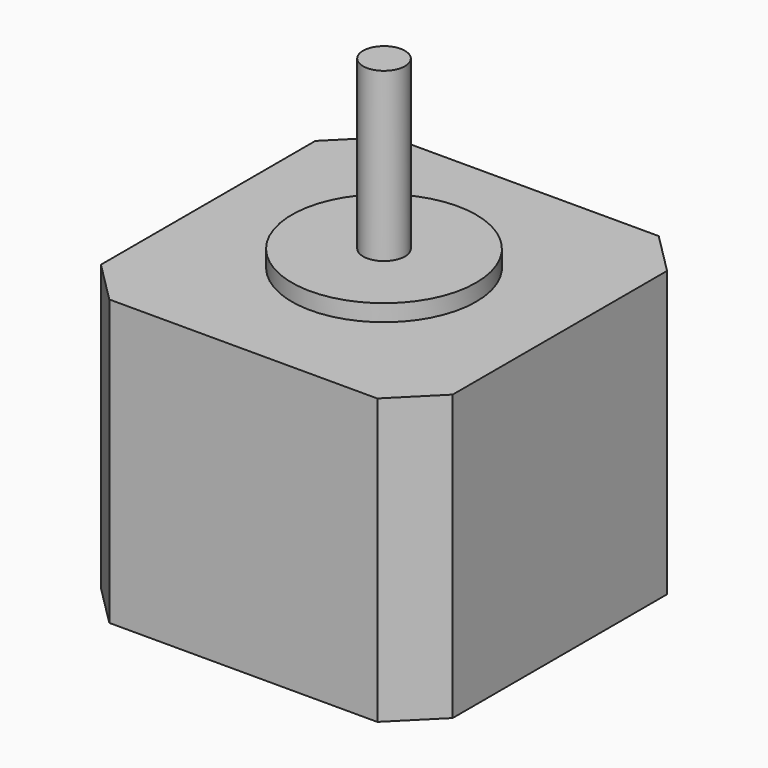
from build123d import *

# Parameters (mm, degrees)
F0_W     = 42
F0_H     = 42
F1_DEPTH = 34
F2_R     = 11
F3_DEPTH = 2
F4_R     = 2.5
F5_DEPTH = 20
F6_SIZE  = 5


with BuildPart() as f1:
    # F0 (on Top) → F1 (new body)
    with BuildSketch(Plane.XY):
        Rectangle(F0_W, F0_H)
    extrude(amount=F1_DEPTH)

    # F2 (on face) → F3 (join)
    with BuildSketch(Plane.XY.offset(34)):
        Circle(F2_R)
    extrude(amount=F3_DEPTH)

    # F4 (on face) → F5 (join)
    with BuildSketch(Plane.XY.offset(36)):
        Circle(F4_R)
    extrude(amount=F5_DEPTH)

    # F6
    f6_edges = [f1.edges().sort_by_distance(p)[0] for p in [
        (-21, 21, 17),
        (21, 21, 17),
        (21, -21, 17),
        (-21, -21, 17),
    ]]
    chamfer(f6_edges, length=F6_SIZE)


solid = f1.part
